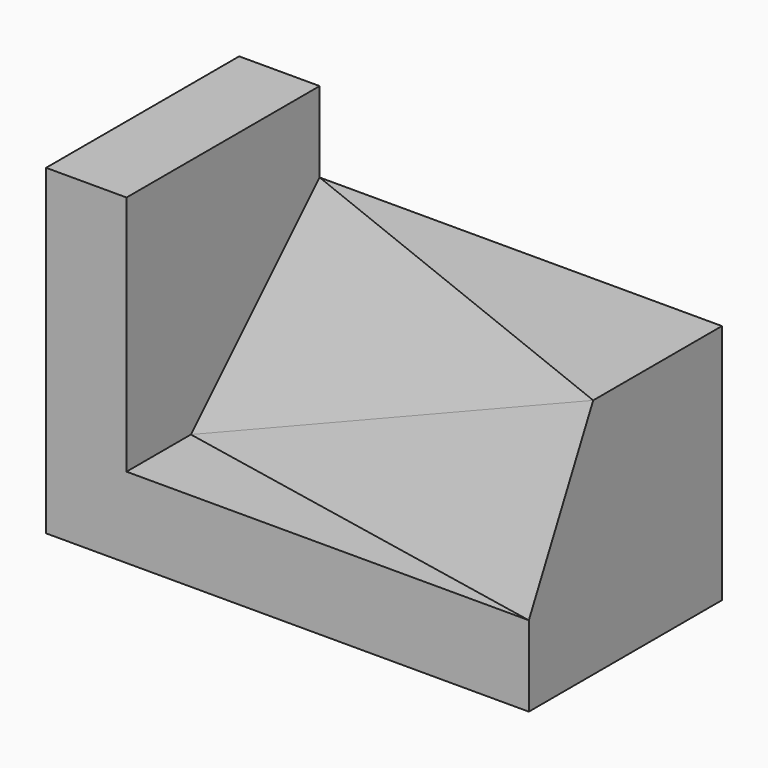
from build123d import *

# Parameters (mm, degrees)
F0_W      = 5
F0_H      = 3
F1_DEPTH  = 3
F3_DEPTH  = 2
F7_DEPTH  = 25
F10_DEPTH = 25
F11_W     = 1
F11_H     = 4
F12_DEPTH = 3


with BuildPart() as f1:
    # F0 (on Front) → F1 (new body)
    with BuildSketch(Plane.XZ):
        with Locations((2.5, 1.5)):
            Rectangle(F0_W, F0_H)
    extrude(amount=-F1_DEPTH)

    # F2 (on face) → F3 (cut)
    with BuildSketch(Plane.XY.offset(3)):
        Polygon((0, 1), (0, 0), (5, 0), align=None)
    extrude(amount=-F3_DEPTH, mode=Mode.SUBTRACT)

    # F6 (on 3pt) → F7 (cut)
    with BuildSketch(Plane(origin=(0.0775193798, 0.3875968992, -0.1937984496), x_dir=(-0.9843740387, 0.1574998462, -0.0787499231), z_dir=(0.1760901813, 0.8804509063, -0.4402254532))):
        Polygon((-5.0006201166, 0.894427191), (0.0787499231, 1.3416407865), (-5.0006201166, 3.1304951685), (-6.1923572794, 3.1304951685), (-6.2219146639, 0.894427191), align=None)
    extrude(amount=-F7_DEPTH, mode=Mode.SUBTRACT)

    # F9 (on 3pt) → F10 (cut)
    with BuildSketch(Plane(origin=(0, 0, 0), x_dir=(-0.9622504486, 0.1924500897, -0.1924500897), z_dir=(0.272165527, 0.6804138174, -0.6804138174))):
        Polygon((0, 1.4142135624), (0, 4.2426406871), (-5.1961524227, 2.8284271247), (-5.4845568387, 1.7687616367), align=None)
    extrude(amount=-F10_DEPTH, mode=Mode.SUBTRACT)

    # F11 (on Front) → F12 (join)
    with BuildSketch(Plane.XZ):
        with Locations((-0.5, 2)):
            Rectangle(F11_W, F11_H)
    extrude(amount=-F12_DEPTH)


solid = f1.part
